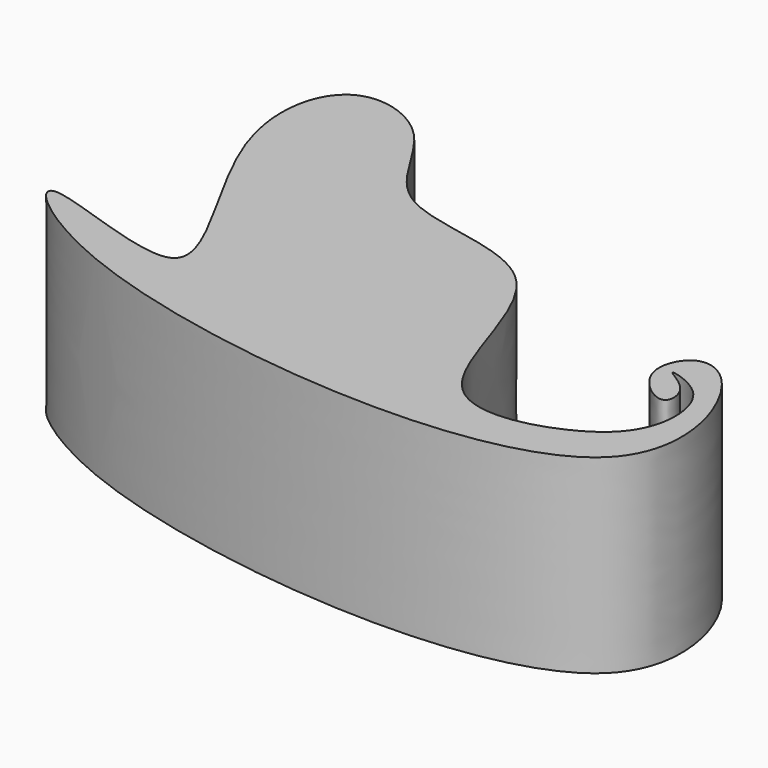
from build123d import *

# Parameters (mm, degrees)
F1_DEPTH = 56.896


with BuildPart() as f1:
    # F0 (on Top) → F1 (new body)
    with BuildSketch(Plane.XY):
        with BuildLine():
            add(Edge.make_bspline(
                [(-98.051853478, -20.656041801), (-52.0497837184, -39.571342506), (81.9550935318, -51.7855969024), (60.9635597267, 21.9063005109), (42.9701701855, 30.6507448601), (35.7644915558, 14.6313188917), (52.1554349677, 2.1724202803), (51.6268425796, 14.4698774688), (38.0813187738, 20.3580865771), (57.0237158339, 15.6343479351), (59.4471544821, -6.7372738285), (43.5260156, -21.62178885), (0.6294095944, -30.4753351242), (-3.7681878316, 46.5618017285), (-64.3882563028, 39.7281472605), (-75.0059649677, 78.5555598545), (-107.4637690264, 88.759405467), (-117.2562359661, 47.4000137124), (-56.409238201, -29.2190177953), (-146.1978778267, 12.414870114), (-119.8635189231, -11.6874407592), (-98.051853478, -20.656041801)],
                knots=[0, 0, 0, 0, 0.1193590439, 0.1828377172, 0.2192564318, 0.2524780434, 0.2876900195, 0.3126229898, 0.3404519667, 0.3713812373, 0.4133133395, 0.4569240395, 0.5102317385, 0.5829830213, 0.6478202566, 0.7039397462, 0.7498041288, 0.8057158356, 0.8806455513, 0.9434064696, 1, 1, 1, 1], degree=3))
        make_face()
    extrude(amount=F1_DEPTH)


solid = f1.part
